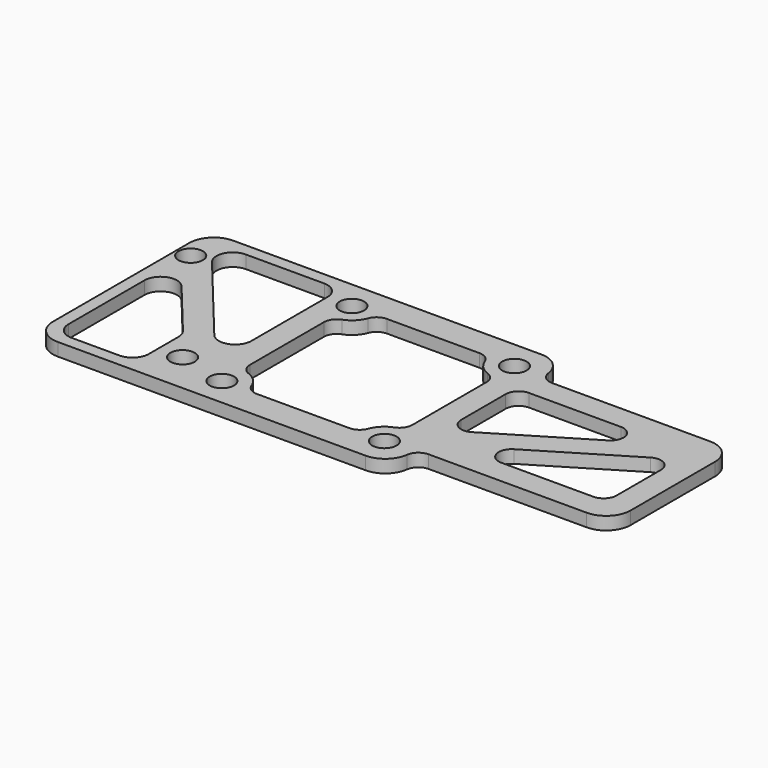
from build123d import *

# Parameters (mm, degrees)
F1_DEPTH = 1.5875
F2_D     = 3
F2_DEPTH = 5
F3_D     = 3
F3_DEPTH = 5
F5_DEPTH = 25
F7_DEPTH = 25
F9_DEPTH = 25


with BuildPart() as f1:
    # F0 (on Top) → F1 (new body)
    with BuildSketch(Plane.XY):
        with BuildLine():
            Line((10.5, 13.5), (-13.5, 13.5))
            Line((-13.5, 13.5), (-27.4, 13.5))
            ThreePointArc((-27.4, 13.5), (-29.52132, 12.62132), (-30.4, 10.5))
            Line((-30.4, 10.5), (-30.4, -10.5))
            ThreePointArc((-30.4, -10.5), (-29.52132, -12.62132), (-27.4, -13.5))
            Line((-27.4, -13.5), (-13.5, -13.5))
            Line((-13.5, -13.5), (10.5, -13.5))
            ThreePointArc((10.5, -13.5), (12.480835, -12.753063), (13.475297, -10.884196))
            ThreePointArc((13.475297, -10.884196), (14.001534, -9.895254), (15.049725, -9.5))
            Line((15.049725, -9.5), (34.5, -9.5))
            ThreePointArc((34.5, -9.5), (36.62132, -8.62132), (37.5, -6.5))
            Line((37.5, -6.5), (37.5, 6.5))
            ThreePointArc((37.5, 6.5), (36.62132, 8.62132), (34.5, 9.5))
            Line((34.5, 9.5), (15.049725, 9.5))
            ThreePointArc((15.049725, 9.5), (14.001534, 9.895254), (13.475297, 10.884196))
            ThreePointArc((13.475297, 10.884196), (12.480835, 12.753063), (10.5, 13.5))
        make_face()
    extrude(amount=-F1_DEPTH)

    # F2
    with Locations(Plane.XY):
        with Locations((-10, 10), (10, 10), (10, -10), (-10, -10)):
            Hole(F2_D / 2, depth=F2_DEPTH)

    # F3
    with Locations(Plane.XY):
        with Locations((-28.64, 8.5), (-16.04, -8.5)):
            Hole(F3_D / 2, depth=F3_DEPTH)

    # F4 (on face) → F5 (cut)
    with BuildSketch(Plane.XY):
        with BuildLine():
            Line((5.695932, 10), (-5.695932, 10))
            ThreePointArc((-5.695932, 10), (-6.603693, 9.714854), (-7.185351, 8.961853))
            ThreePointArc((-7.185351, 8.961853), (-7.87868, 7.87868), (-8.961853, 7.185351))
            ThreePointArc((-8.961853, 7.185351), (-9.714854, 6.603693), (-10, 5.695932))
            Line((-10, 5.695932), (-10, -5.695932))
            ThreePointArc((-10, -5.695932), (-9.714854, -6.603693), (-8.961853, -7.185351))
            ThreePointArc((-8.961853, -7.185351), (-7.87868, -7.87868), (-7.185351, -8.961853))
            ThreePointArc((-7.185351, -8.961853), (-6.603693, -9.714854), (-5.695932, -10))
            Line((-5.695932, -10), (5.695932, -10))
            ThreePointArc((5.695932, -10), (6.603693, -9.714854), (7.185351, -8.961853))
            ThreePointArc((7.185351, -8.961853), (7.87868, -7.87868), (8.961853, -7.185351))
            ThreePointArc((8.961853, -7.185351), (9.714854, -6.603693), (10, -5.695932))
            Line((10, -5.695932), (10, 5.695932))
            ThreePointArc((10, 5.695932), (9.714854, 6.603693), (8.961853, 7.185351))
            ThreePointArc((8.961853, 7.185351), (7.87868, 7.87868), (7.185351, 8.961853))
            ThreePointArc((7.185351, 8.961853), (6.603693, 9.714854), (5.695932, 10))
        make_face()
    extrude(amount=-F5_DEPTH, mode=Mode.SUBTRACT)

    # F6 (on face) → F7 (cut)
    with BuildSketch(Plane.XY):
        with BuildLine():
            Line((-15, 12), (-24.658826, 12))
            ThreePointArc((-24.658826, 12), (-26.467781, 10.853044), (-26.201944, 8.727684))
            Line((-26.201944, 8.727684), (-16.543118, -2.986947))
            ThreePointArc((-16.543118, -2.986947), (-14.324069, -3.596948), (-13, -1.714631))
            Line((-13, -1.714631), (-13, 10))
            ThreePointArc((-13, 10), (-13.585786, 11.414214), (-15, 12))
        make_face()
        with BuildLine():
            Line((-19.456882, -4.168822), (-25.356882, 2.986947))
            ThreePointArc((-25.356882, 2.986947), (-27.575931, 3.596948), (-28.9, 1.714631))
            Line((-28.9, 1.714631), (-28.9, -10))
            ThreePointArc((-28.9, -10), (-28.314214, -11.414214), (-26.9, -12))
            Line((-26.9, -12), (-21, -12))
            ThreePointArc((-21, -12), (-19.585786, -11.414214), (-19, -10))
            Line((-19, -10), (-19, -5.441137))
            ThreePointArc((-19, -5.441137), (-19.117683, -4.765207), (-19.456882, -4.168822))
        make_face()
    extrude(amount=-F7_DEPTH, mode=Mode.SUBTRACT)

    # F8 (on face) → F9 (cut)
    with BuildSketch(Plane.XY):
        with BuildLine():
            ThreePointArc((26.728809, 3.554025), (27.436578, 5.338867), (25.907406, 6.5))
            Line((25.907406, 6.5), (14.5875, 6.5))
            ThreePointArc((14.5875, 6.5), (13.464968, 6.035032), (13, 4.9125))
            Line((13, 4.9125), (13, -1.932094))
            ThreePointArc((13, -1.932094), (13.807699, -3.314869), (15.408903, -3.290569))
            Line((15.408903, -3.290569), (26.728809, 3.554025))
        make_face()
        with BuildLine():
            Line((21.592594, -6.5), (32.9125, -6.5))
            ThreePointArc((32.9125, -6.5), (34.035032, -6.035032), (34.5, -4.9125))
            Line((34.5, -4.9125), (34.5, 1.932094))
            ThreePointArc((34.5, 1.932094), (33.692301, 3.314869), (32.091097, 3.290569))
            Line((32.091097, 3.290569), (20.771191, -3.554025))
            ThreePointArc((20.771191, -3.554025), (20.063422, -5.338867), (21.592594, -6.5))
        make_face()
    extrude(amount=-F9_DEPTH, mode=Mode.SUBTRACT)


solid = f1.part
